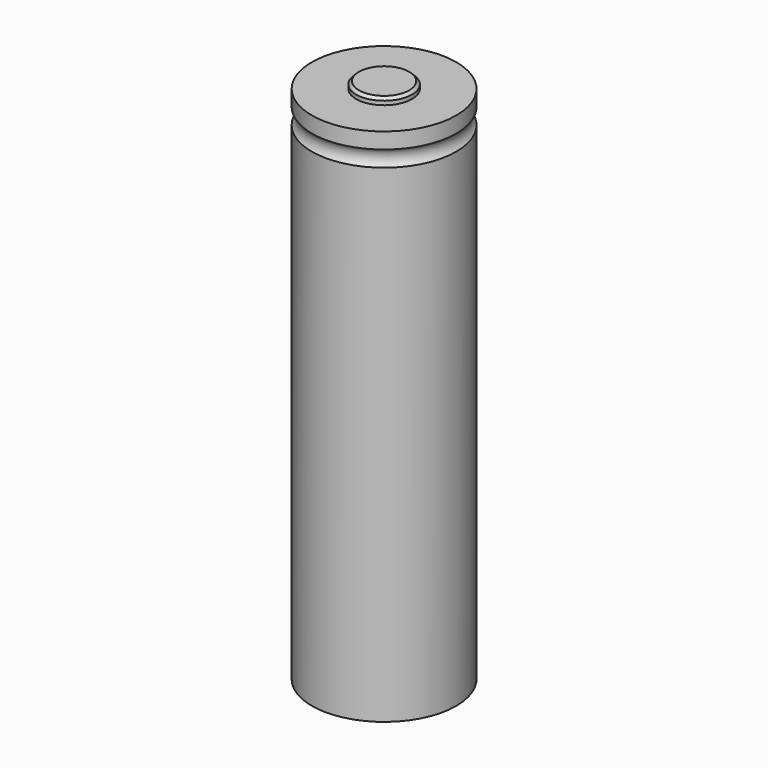
from build123d import *


with BuildPart() as f1:
    # F0 (on Front) → F1 (revolve)
    with BuildSketch(Plane.XZ):
        with BuildLine():
            Line((0, 66), (0, 0))
            Line((0, 0), (7.05, 0))
            ThreePointArc((7.05, 0), (7.55, 0.2), (8.05, 0))
            Line((8.05, 0), (9.05, 0))
            Line((9.05, 0), (9.05, 61.15))
            ThreePointArc((9.05, 61.15), (8.65, 62.15), (9.05, 63.15))
            Line((9.05, 63.15), (9.05, 65.15))
            Line((9.05, 65.15), (3.5, 65.15))
            Line((3.5, 65.15), (3.5, 65.646447))
            Line((3.5, 65.646447), (3.146447, 66))
            Line((3.146447, 66), (0, 66))
        make_face()
    revolve(axis=Axis((0, 0, 33), (0, 0, 1)))


solid = f1.part
